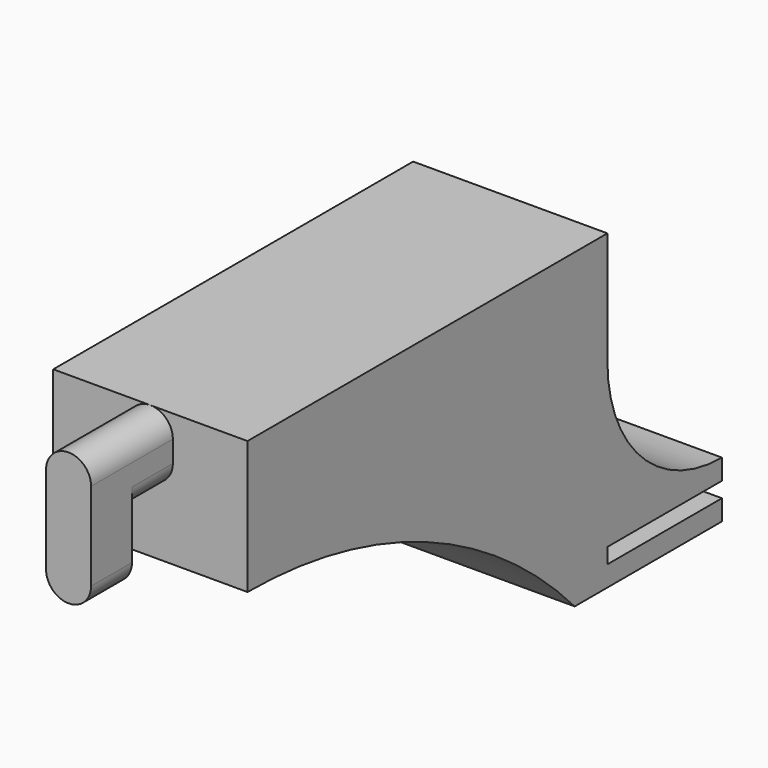
from build123d import *

# Parameters (mm, degrees)
SKETCH_W     = 19
SKETCH_H     = 18
PAD_DEPTH    = 2
SKETCH001_W  = 19
SKETCH001_H  = 4
PAD001_DEPTH = 3.5
SKETCH002_W  = 19
SKETCH002_H  = 2
PAD002_DEPTH = 14
SKETCH003_W  = 19
SKETCH003_H  = 4
PAD003_DEPTH = 14
PAD004_DEPTH = 19
PAD005_DEPTH = 19
PAD006_DEPTH = 5
PAD007_DEPTH = 5


with BuildPart() as part:
    # Sketch → Pad (new body)
    with BuildSketch(Plane.XY):
        with Locations((0, -1)):
            Rectangle(SKETCH_W, SKETCH_H)
    extrude(amount=PAD_DEPTH)

    # Sketch001 (on Face6 of Pad) → Pad001 (join)
    with BuildSketch(Plane.XY.offset(2)):
        with Locations((0, -8)):
            Rectangle(SKETCH001_W, SKETCH001_H)
    extrude(amount=PAD001_DEPTH)

    # Sketch002 (on Face4 of Pad001) → Pad002 (join)
    with BuildSketch(Plane(origin=(0, -6, 0), x_dir=(-1, 0, 0), z_dir=(0, 1, 0))):
        with Locations((0, 4.5)):
            Rectangle(SKETCH002_W, SKETCH002_H)
    extrude(amount=PAD002_DEPTH)

    # Sketch003 (on Face10 of Pad002) → Pad003 (join)
    with BuildSketch(Plane.XY.offset(5.5)):
        with Locations((0, -8)):
            Rectangle(SKETCH003_W, SKETCH003_H)
    extrude(amount=PAD003_DEPTH)

    # Sketch004 (on Face11 of Pad003) → Pad004 (join)
    with BuildSketch(Plane(origin=(-9.5, 0, 0), x_dir=(0, -1, 0), z_dir=(-1, 0, 0))):
        with BuildLine():
            Line((-8, 5.5), (6, 5.5))
            Line((6, 19.5), (6, 5.5))
            ThreePointArc((-8, 5.5), (1.899495, 9.600505), (6, 19.5))
        make_face()
    extrude(amount=-PAD004_DEPTH)

    # Sketch005 (on Face11 of Pad004) → Pad005 (join)
    with BuildSketch(Plane(origin=(-9.5, 0, 0), x_dir=(0, -1, 0), z_dir=(-1, 0, 0))):
        with BuildLine():
            Line((10, 30.5), (6, 30.5))
            Line((6, 30.5), (6, 19.5))
            Line((6, 19.5), (10, 19.5))
            Line((10, 19.5), (10, 0))
            ThreePointArc((50, 17.5), (28.169689, 12.933569), (10, 0))
            Line((50, 17.5), (50, 30.5))
            Line((50, 30.5), (10, 30.5))
        make_face()
    extrude(amount=-PAD005_DEPTH)

    # Sketch006 (on Face10 of Pad005) → Pad006 (join)
    with BuildSketch(Plane.XZ.offset(50)):
        with BuildLine():
            ThreePointArc((-2.2, 26.2), (0, 24), (2.2, 26.2))
            Line((2.2, 26.2), (2.2, 28.3))
            ThreePointArc((2.2, 28.3), (0, 30.5), (-2.2, 28.3))
            Line((-2.2, 26.2), (-2.2, 28.3))
        make_face()
    extrude(amount=PAD006_DEPTH)

    # Sketch007 (on Face18 of Pad006) → Pad007 (join)
    with BuildSketch(Plane.XZ.offset(55)):
        with BuildLine():
            ThreePointArc((2.2, 28.3), (0, 30.5), (-2.2, 28.3))
            Line((-2.2, 28.3), (-2.2, 19.7))
            ThreePointArc((-2.2, 19.7), (0, 17.5), (2.2, 19.7))
            Line((2.2, 28.3), (2.2, 19.7))
        make_face()
    extrude(amount=PAD007_DEPTH)


solid = part.part
